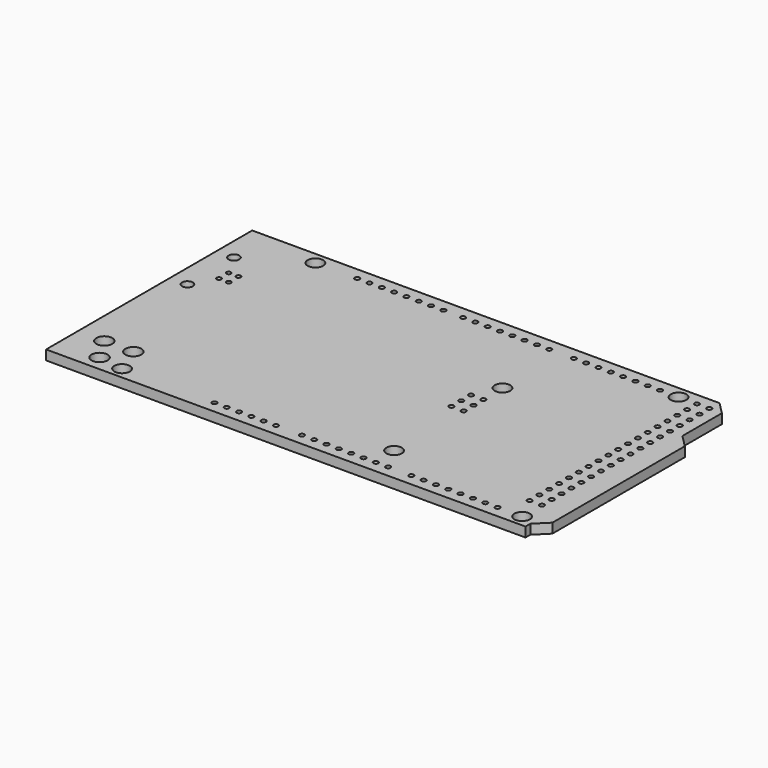
from build123d import *

# Parameters (mm, degrees)
PAD_DEPTH           = 2
SKETCH001_R         = 1.6
POCKET_DEPTH        = 2.001
SKETCH002_R         = 1.65
POCKET001_DEPTH     = 2.001
SKETCH003_R         = 1.1
SKETCH003_R_2       = 0.475
POCKET002_DEPTH     = 2.001
SKETCH004_R         = 0.5
POCKET003_DEPTH     = 2.001
SKETCH007_R         = 0.5
POCKET004_DEPTH     = 2.001
SKETCH008_R         = 0.5
POCKET005_DEPTH     = 2.001
SKETCH009_R         = 0.5
POCKET006_DEPTH     = 2.001
SKETCH010_R         = 0.5
POCKET007_DEPTH     = 2.001
SKETCH011_R         = 0.5
POCKET008_DEPTH     = 2.001
SKETCH012_R         = 0.5
POCKET009_DEPTH     = 2.001
SKETCH013_R         = 0.5
POCKET010_DEPTH     = 2.001
LINEARPATTERN_COUNT = 18
LINEARPATTERN_PITCH = 2.54


with BuildPart() as part:
    # Sketch → Pad (new body)
    with BuildSketch(Plane.XY):
        Polygon((-50.7275, -26.5825), (-50.7275, 26.5825), (45.6905, 26.5825), (48.1905, 24.0825), (48.1905, 13.8825), (50.7275, 11.3455), (50.7275, -22.8245), (48.1905, -25.3225), (48.1905, -26.5825), align=None)
    extrude(amount=PAD_DEPTH)

    # Sketch001 (on Face11 of Pad) → Pocket (cut, through all)
    with BuildSketch(Plane.XY.offset(2)):
        with Locations((-35.6964, 24.084)):
            Circle(SKETCH001_R)
        with Locations((39.234, 24.084)):
            Circle(SKETCH001_R)
        with Locations((-36.966, -24.176)):
            Circle(SKETCH001_R)
        with Locations((15.1, -19.1)):
            Circle(SKETCH001_R)
        with Locations((15.1, 8.844)):
            Circle(SKETCH001_R)
        with Locations((45.58, -24.18)):
            Circle(SKETCH001_R)
    extrude(amount=-POCKET_DEPTH, mode=Mode.SUBTRACT)

    # Sketch002 (on Face5 of Pocket) → Pocket001 (cut, through all)
    with BuildSketch(Plane.XY.offset(2)):
        with Locations((-45.25, -18.41)):
            Circle(SKETCH002_R)
        with Locations((-39.25, -18.41)):
            Circle(SKETCH002_R)
        with Locations((-42.243446, -23.38666)):
            Circle(SKETCH002_R)
    extrude(amount=-POCKET001_DEPTH, mode=Mode.SUBTRACT)

    # Sketch003 (on Face5 of Pocket001) → Pocket002 (cut, through all)
    with BuildSketch(Plane.XY.offset(2)):
        with Locations((-47.13, 17.38)):
            Circle(SKETCH003_R)
        with Locations((-47.13, 5.38)):
            Circle(SKETCH003_R)
        with Locations((-44.42, 12.64)):
            Circle(SKETCH003_R_2)
        with Locations((-42.42, 12.64)):
            Circle(SKETCH003_R_2)
        with Locations((-44.42, 10.14)):
            Circle(SKETCH003_R_2)
        with Locations((-42.42, 10.14)):
            Circle(SKETCH003_R_2)
    extrude(amount=-POCKET002_DEPTH, mode=Mode.SUBTRACT)

    # Sketch004 (on Face5 of Pocket002) → Pocket003 (cut, through all)
    with BuildSketch(Plane.XY.offset(2)):
        with Locations((12.6801, -1.3)):
            Circle(SKETCH004_R)
        with Locations((15.2201, -1.3)):
            Circle(SKETCH004_R)
        with Locations((15.2201, 1.24)):
            Circle(SKETCH004_R)
        with Locations((12.6801, 1.24)):
            Circle(SKETCH004_R)
        with Locations((12.6801, 3.78)):
            Circle(SKETCH004_R)
        with Locations((15.2201, 3.78)):
            Circle(SKETCH004_R)
    extrude(amount=-POCKET003_DEPTH, mode=Mode.SUBTRACT)

    # Sketch007 (on Face5 of Pocket003) → Pocket004 (cut, through all)
    with BuildSketch(Plane.XY.offset(2)):
        with Locations((-27.06, 24.084)):
            Circle(SKETCH007_R)
        with Locations((-24.52, 24.084)):
            Circle(SKETCH007_R)
        with Locations((-21.98, 24.084)):
            Circle(SKETCH007_R)
        with Locations((-19.44, 24.084)):
            Circle(SKETCH007_R)
        with Locations((-16.9, 24.084)):
            Circle(SKETCH007_R)
        with Locations((-14.36, 24.084)):
            Circle(SKETCH007_R)
        with Locations((-11.82, 24.084)):
            Circle(SKETCH007_R)
        with Locations((-9.28, 24.084)):
            Circle(SKETCH007_R)
    extrude(amount=-POCKET004_DEPTH, mode=Mode.SUBTRACT)

    # Sketch008 (on Face5 of Pocket004) → Pocket005 (cut, through all)
    with BuildSketch(Plane.XY.offset(2)):
        with Locations((-5.216, 24.084)):
            Circle(SKETCH008_R)
        with Locations((-2.676, 24.084)):
            Circle(SKETCH008_R)
        with Locations((-0.136, 24.084)):
            Circle(SKETCH008_R)
        with Locations((2.404, 24.084)):
            Circle(SKETCH008_R)
        with Locations((4.944, 24.084)):
            Circle(SKETCH008_R)
        with Locations((7.484, 24.084)):
            Circle(SKETCH008_R)
        with Locations((10.024, 24.084)):
            Circle(SKETCH008_R)
        with Locations((12.564, 24.084)):
            Circle(SKETCH008_R)
    extrude(amount=-POCKET005_DEPTH, mode=Mode.SUBTRACT)

    # Sketch009 (on Face5 of Pocket005) → Pocket006 (cut, through all)
    with BuildSketch(Plane.XY.offset(2)):
        with Locations((17.644, 24.084)):
            Circle(SKETCH009_R)
        with Locations((20.184, 24.084)):
            Circle(SKETCH009_R)
        with Locations((22.724, 24.084)):
            Circle(SKETCH009_R)
        with Locations((25.264, 24.084)):
            Circle(SKETCH009_R)
        with Locations((27.804, 24.084)):
            Circle(SKETCH009_R)
        with Locations((30.344, 24.084)):
            Circle(SKETCH009_R)
        with Locations((32.884, 24.084)):
            Circle(SKETCH009_R)
        with Locations((35.424, 24.084)):
            Circle(SKETCH009_R)
    extrude(amount=-POCKET006_DEPTH, mode=Mode.SUBTRACT)

    # Sketch010 (on Face5 of Pocket006) → Pocket007 (cut, through all)
    with BuildSketch(Plane.XY.offset(2)):
        with Locations((-17.916, -24.176)):
            Circle(SKETCH010_R)
        with Locations((-15.376, -24.176)):
            Circle(SKETCH010_R)
        with Locations((-12.836, -24.176)):
            Circle(SKETCH010_R)
        with Locations((-10.296, -24.176)):
            Circle(SKETCH010_R)
        with Locations((-7.756, -24.176)):
            Circle(SKETCH010_R)
        with Locations((-5.216, -24.176)):
            Circle(SKETCH010_R)
    extrude(amount=-POCKET007_DEPTH, mode=Mode.SUBTRACT)

    # Sketch011 (on Face5 of Pocket007) → Pocket008 (cut, through all)
    with BuildSketch(Plane.XY.offset(2)):
        with Locations((0.136, -24.176)):
            Circle(SKETCH011_R)
        with Locations((2.676, -24.176)):
            Circle(SKETCH011_R)
        with Locations((5.216, -24.176)):
            Circle(SKETCH011_R)
        with Locations((7.756, -24.176)):
            Circle(SKETCH011_R)
        with Locations((10.296, -24.176)):
            Circle(SKETCH011_R)
        with Locations((12.836, -24.176)):
            Circle(SKETCH011_R)
        with Locations((15.376, -24.176)):
            Circle(SKETCH011_R)
        with Locations((17.916, -24.176)):
            Circle(SKETCH011_R)
    extrude(amount=-POCKET008_DEPTH, mode=Mode.SUBTRACT)

    # Sketch012 (on Face5 of Pocket008) → Pocket009 (cut, through all)
    with BuildSketch(Plane.XY.offset(2)):
        with Locations((22.724, -24.176)):
            Circle(SKETCH012_R)
        with Locations((25.264, -24.176)):
            Circle(SKETCH012_R)
        with Locations((27.804, -24.176)):
            Circle(SKETCH012_R)
        with Locations((30.344, -24.176)):
            Circle(SKETCH012_R)
        with Locations((32.884, -24.176)):
            Circle(SKETCH012_R)
        with Locations((35.424, -24.176)):
            Circle(SKETCH012_R)
        with Locations((37.964, -24.176)):
            Circle(SKETCH012_R)
        with Locations((40.504, -24.176)):
            Circle(SKETCH012_R)
    extrude(amount=-POCKET009_DEPTH, mode=Mode.SUBTRACT)

    # Sketch013 (on Face5 of Pocket009) → Pocket010 (cut, through all)
    with BuildSketch(Plane.XY.offset(2)):
        with Locations((43.044, 24.084)):
            Circle(SKETCH013_R)
        with Locations((45.584, 24.084)):
            Circle(SKETCH013_R)
    pocket010 = extrude(amount=-POCKET010_DEPTH, mode=Mode.SUBTRACT)

    # LinearPattern: Pocket010 ×18
    with Locations(*[(0, -i * LINEARPATTERN_PITCH, 0) for i in range(1, LINEARPATTERN_COUNT)]):
        add(pocket010, mode=Mode.SUBTRACT)


solid = part.part
